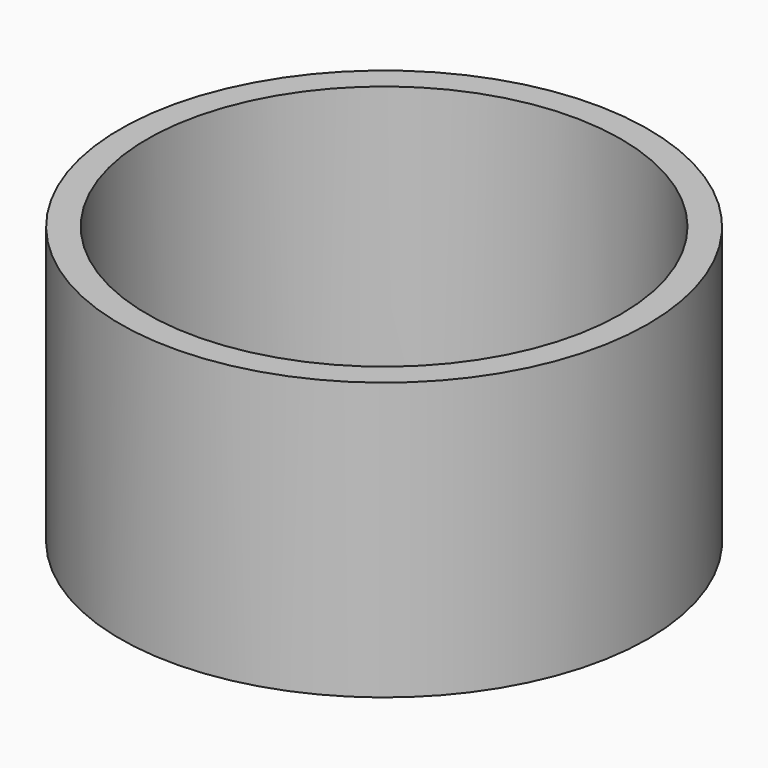
from build123d import *

# Parameters (mm, degrees)
SKETCH_R   = 19.05
SKETCH_R_2 = 17.1
PAD_DEPTH  = 20


with BuildPart() as part:
    # Sketch → Pad (new body)
    with BuildSketch(Plane.XY):
        Circle(SKETCH_R)
        Circle(SKETCH_R_2, mode=Mode.SUBTRACT)
    extrude(amount=PAD_DEPTH)


solid = part.part
